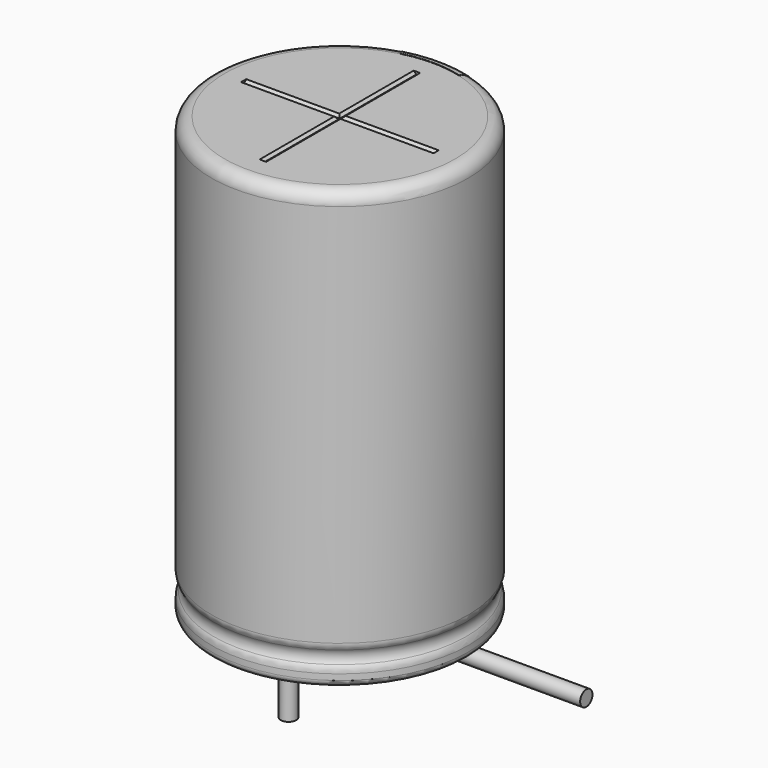
from build123d import *

# Parameters (mm, degrees)
SKETCH003_R         = 0.3
REVOLUTION001_ANGLE = -30
SKETCH015_W         = 0.5
SKETCH015_H         = 1
POCKET002_DEPTH     = 5.011
LINEARPATTERN_COUNT = 4
LINEARPATTERN_PITCH = 4.666667
SKETCH010_R         = 0.3
PAD002_DEPTH        = 2.6
SKETCH013_R         = 4.5
PAD_DEPTH           = 0.5
POCKET001_DEPTH     = 3.75
POLARPATTERN_COUNT  = 3
POLARPATTERN_ANGLE  = 180
SKETCH012_R         = 4.5
POCKET_DEPTH        = 0.5


with BuildPart() as obj1:
    # AdditivePipe: sweep along a path in Sketch004
    with BuildLine(Plane.XZ) as additivepipe_path:
        Line((0, 0), (0, -0.5))
        ThreePointArc((0, -0.5), (0.292893, -1.207107), (1, -1.5))
        Line((1, -1.5), (7.6, -1.5))
    # Sketch003 (on ShapeBinder) → AdditivePipe (sweep)
    with BuildSketch(Plane(origin=(0, 0, 0), x_dir=(1, 0, 0), z_dir=(0, 0, -1))):
        with Locations((0, 2.5)):
            Circle(SKETCH003_R)
    sweep(path=additivepipe_path.line)


with BuildPart() as obj1_1:
    # Body003 placement: moved
    add(obj1.part.moved(Location((0, 5, 0))))


with BuildPart() as polaritymarking:
    # Sketch005 → Revolution001 (revolve)
    with BuildSketch(Plane(origin=(0, 0, 0), x_dir=(-0.258819, 0.965926, 0), z_dir=(0.965926, 0.258819, 0))):
        with BuildLine():
            Line((4.51, 0.25), (4.51, 17.01))
            ThreePointArc((4.51, 17.01), (4.863553, 16.863553), (5.01, 16.51))
            Line((5.01, 16.51), (5.01, 1.523941))
            ThreePointArc((5.01, 1.523941), (4.989134, 1.381006), (4.928278, 1.25))
            ThreePointArc((4.928278, 1.25), (4.853698, 1), (4.928278, 0.75))
            ThreePointArc((4.928278, 0.75), (4.989134, 0.618994), (5.01, 0.476059))
            Line((5.01, 0.476059), (5.01, 0.25))
            ThreePointArc((5.01, 0.25), (4.76, 0), (4.51, 0.25))
        make_face()
    revolve(axis=Axis((0, 0, 0), (0, 0, 1)), revolution_arc=REVOLUTION001_ANGLE)

    # Sketch015 → Pocket002 (cut, through all)
    with BuildSketch(Plane.XZ):
        with Locations((0, 2)):
            Rectangle(SKETCH015_W, SKETCH015_H)
    pocket002 = extrude(amount=-POCKET002_DEPTH, mode=Mode.SUBTRACT)

    # LinearPattern: Pocket002 ×4
    with Locations(*[(0, 0, i * LINEARPATTERN_PITCH) for i in range(1, LINEARPATTERN_COUNT)]):
        add(pocket002, mode=Mode.SUBTRACT)


with BuildPart() as obj2:
    # Sketch010 → Pad002 (new body)
    with BuildSketch(Plane(origin=(0, 2.5, 0), x_dir=(1, 0, 0), z_dir=(0, 0, 1))):
        Circle(SKETCH010_R)
    extrude(amount=-PAD002_DEPTH)


with BuildPart() as obj3:
    # Body007 base: copy of obj2
    add(obj2.part)


with BuildPart() as obj3_1:
    # Body007 placement: moved
    add(obj3.part.moved(Location((0, -5, 0))))


with BuildPart() as housingtop:
    # Sketch013 (on ShapeBinder) → Pad (new body)
    with BuildSketch(Plane.XY.offset(16.5)):
        Circle(SKETCH013_R)
    extrude(amount=PAD_DEPTH)

    # Sketch014 → Pocket001 (cut, symmetric)
    with BuildSketch(Plane.XZ):
        Polygon((-0.125, 17), (0.125, 17), (0.025, 16.9), (-0.025, 16.9), align=None)
    pocket001 = extrude(amount=POCKET001_DEPTH, both=True, mode=Mode.SUBTRACT)

    # PolarPattern: Pocket001 ×3 about axis
    polarpattern_axis = Axis((0, 0, 0), (0, 0, 1))
    for i in range(1, POLARPATTERN_COUNT):
        add(pocket001.rotate(polarpattern_axis, i * POLARPATTERN_ANGLE / (POLARPATTERN_COUNT - 1)), mode=Mode.SUBTRACT)


with BuildPart() as fusion:
    # Sketch → Revolution (revolve)
    with BuildSketch(Plane.XZ):
        with BuildLine():
            Line((0, 17), (4.5, 17))
            ThreePointArc((5, 16.5), (4.853553, 16.853553), (4.5, 17))
            Line((5, 16.5), (5, 1.523941))
            ThreePointArc((4.918278, 1.25), (4.979134, 1.381006), (5, 1.523941))
            ThreePointArc((4.918278, 1.25), (4.843698, 1), (4.918278, 0.75))
            ThreePointArc((5, 0.476059), (4.979134, 0.618994), (4.918278, 0.75))
            Line((5, 0.476059), (5, 0.25))
            ThreePointArc((4.75, 0), (4.926777, 0.073223), (5, 0.25))
            Line((0, 0), (4.75, 0))
            Line((0, 17), (0, 0))
        make_face()
    revolve(axis=Axis((0, 0, 0), (0, 0, 1)))

    # Sketch012 → Pocket (cut)
    with BuildSketch(Plane.XY.offset(17)):
        Circle(SKETCH012_R)
    extrude(amount=-POCKET_DEPTH, mode=Mode.SUBTRACT)

    # Fusion: union PolarityMarking, obj2, obj3, HousingTop
    add(polaritymarking.part)
    add(obj2.part)
    add(obj3_1.part)
    add(housingtop.part)


solid = Compound([obj1_1.part, fusion.part])
